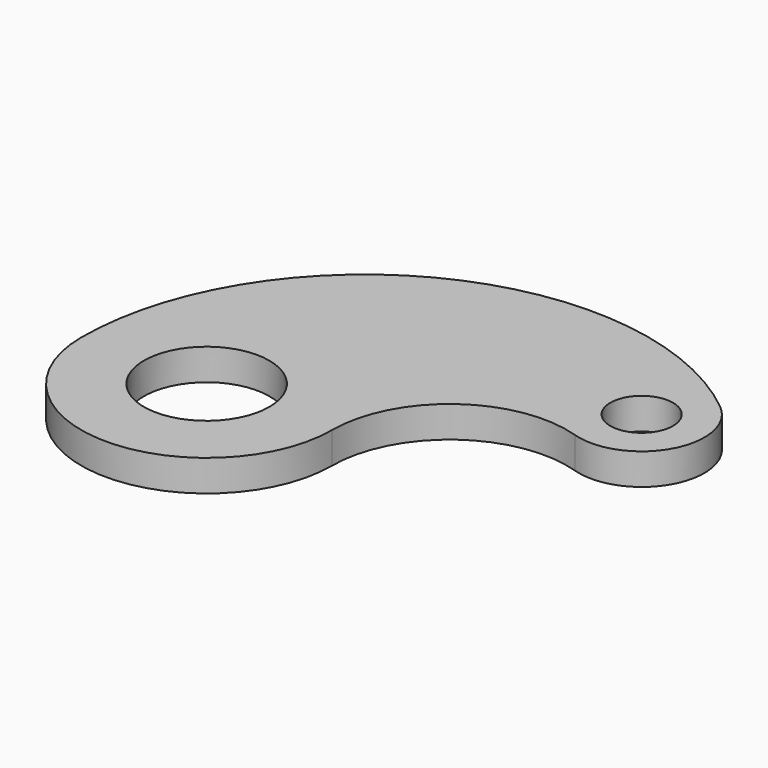
from build123d import *

# Parameters (mm, degrees)
SKETCH_R   = 40
SKETCH_R_2 = 20
PAD_DEPTH  = 20


with BuildPart() as part:
    # Sketch → Pad (new body)
    with BuildSketch(Plane.XY):
        with BuildLine():
            ThreePointArc((-80, 0), (0, -80), (80, 0))
            ThreePointArc((177.715422, 71.477336), (110.720527, 60.533696), (80, 0))
            ThreePointArc((177.715422, 71.477336), (225.042737, 90.62267), (215.008606, 140.679985))
            ThreePointArc((215.008606, 140.679985), (23.118741, 163.417361), (-80, 0))
        make_face()
        Circle(SKETCH_R, mode=Mode.SUBTRACT)
        with Locations((189.830313, 109.598582)):
            Circle(SKETCH_R_2, mode=Mode.SUBTRACT)
    extrude(amount=PAD_DEPTH)


solid = part.part
